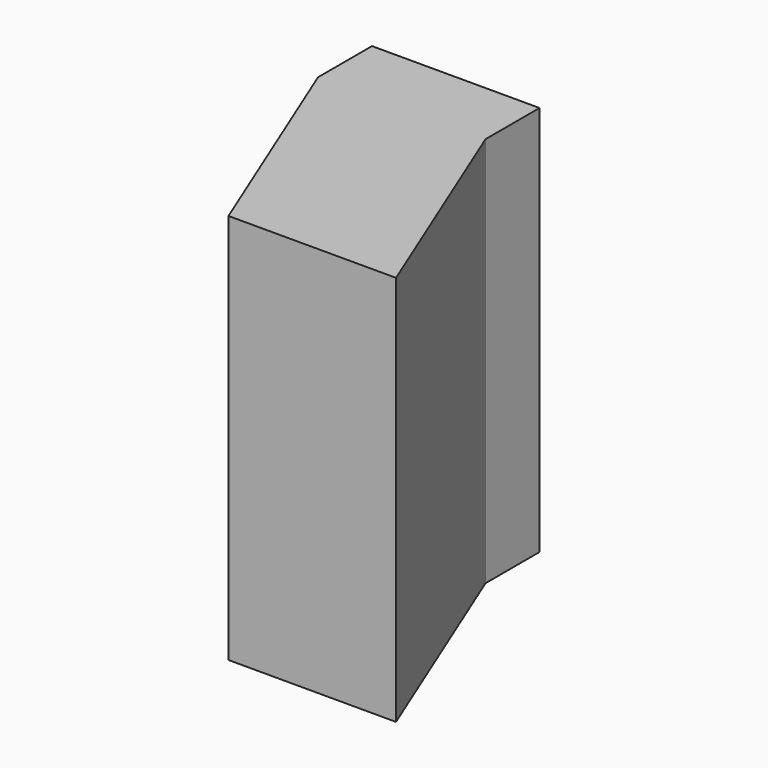
from build123d import *

# Parameters (mm, degrees)
F0_W = 38.1
F0_H = 88.9


with BuildPart() as f2:
    # F2: sweep along a path in F1
    with BuildLine(Plane.XY) as f2_path:
        Line((0, 0), (-20.904869, 51.585395))
        Line((-20.904869, 51.585395), (-20.904869, 66.92566))
    # F0 (on Front) → F2 (sweep)
    with BuildSketch(Plane.XZ):
        with Locations((18.561504, -14.966192)):
            Rectangle(F0_W, F0_H)
    sweep(path=f2_path.line)


solid = f2.part
